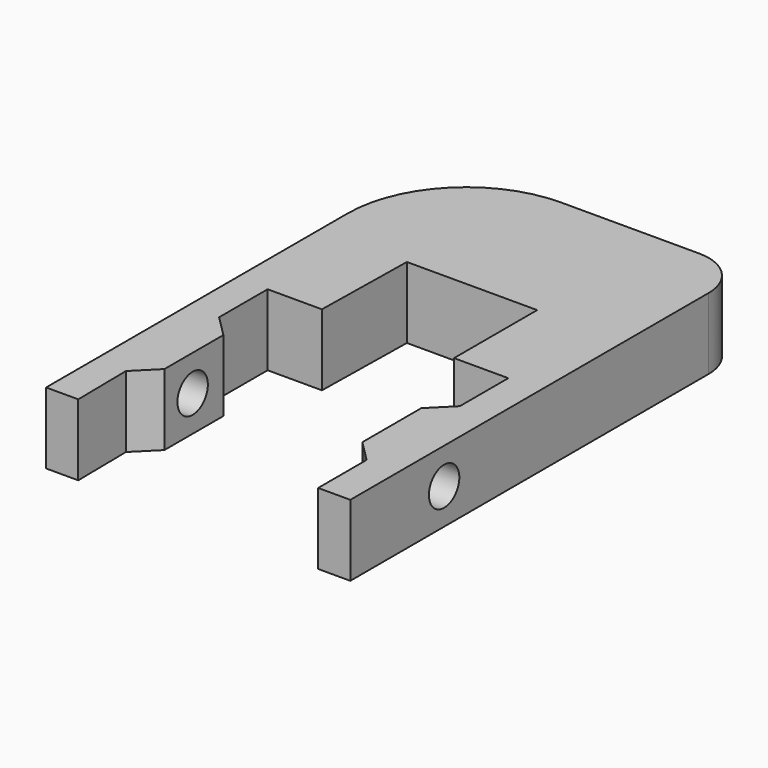
from build123d import *

# Parameters (mm, degrees)
PAD016_DEPTH    = 6
FILLET003_R     = 4
FILLET004_R     = 10
SKETCH047_R     = 1.6
POCKET022_DEPTH = 40


with BuildPart() as part:
    # Sketch046 → Pad016 (new body)
    with BuildSketch(Plane.XY):
        Polygon((10.115871, -9.866412), (10.115871, -4.766412), (8.315871, -2.966412), (8.315871, 3.233588), (10.115871, 5.033588), (10.115871, 10.133588), (5.545871, 10.133588), (5.545871, 18.880948), (-5.414129, 18.879181), (-5.564129, 10.133108), (-10.134129, 10.133108), (-10.134129, 5.033108), (-8.334129, 3.233108), (-8.334129, -2.966892), (-10.134129, -4.766892), (-10.064129, -9.866412), (-12.770461, -9.866412), (-12.770461, 31.817863), (12.822202, 31.817863), (12.822202, -9.866412), align=None)
    extrude(amount=PAD016_DEPTH)

    # Fillet003
    fillet003_edges = [part.edges().sort_by_distance(p)[0] for p in [
        (12.822202, 31.817863, 3),
    ]]
    fillet(fillet003_edges, radius=FILLET003_R)

    # Fillet004
    fillet004_edges = [part.edges().sort_by_distance(p)[0] for p in [
        (-12.770461, 31.817863, 3),
    ]]
    fillet(fillet004_edges, radius=FILLET004_R)

    # Sketch047 (on Face6 of Fillet004) → Pocket022 (cut)
    with BuildSketch(Plane(origin=(-12.770461, 0, 0), x_dir=(0, -1, 0), z_dir=(-1, 0, 0))):
        with Locations((0, 2.995476)):
            Circle(SKETCH047_R)
    extrude(amount=-POCKET022_DEPTH, mode=Mode.SUBTRACT)


solid = part.part
